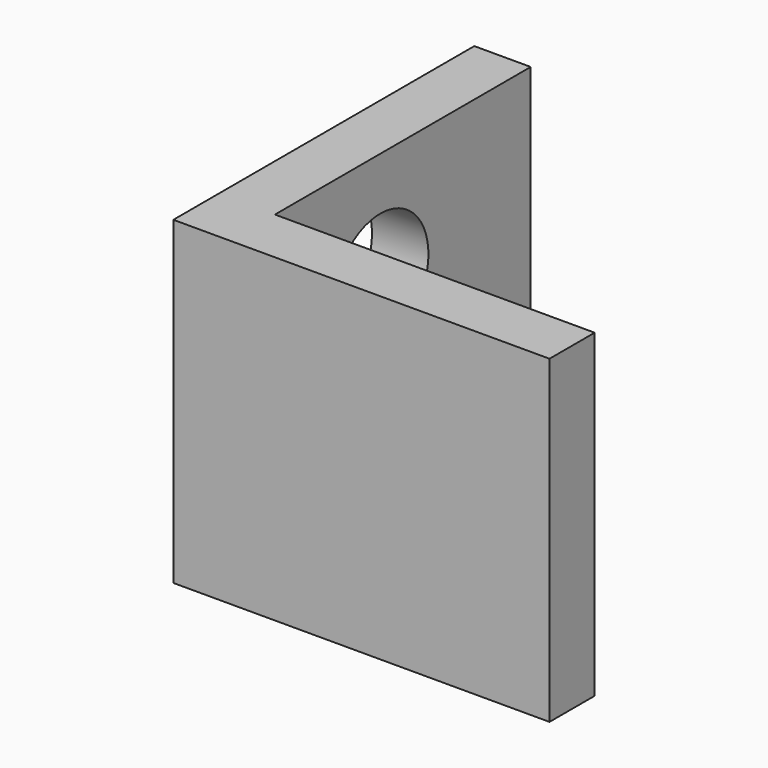
from build123d import *

# Parameters (mm, degrees)
PAD_DEPTH    = 17
SKETCH001_R  = 3.2
POCKET_DEPTH = 5


with BuildPart() as part:
    # Sketch → Pad (new body)
    with BuildSketch(Plane.XY):
        Polygon((0, 0), (0, 20), (3, 20), (3, 3), (20, 3), (20, 0), align=None)
    extrude(amount=PAD_DEPTH)

    # Sketch001 (on Face1 of Pad) → Pocket (cut)
    with BuildSketch(Plane(origin=(0, 0, 0), x_dir=(0, -1, 0), z_dir=(-1, 0, 0))):
        with Locations((-10, 11)):
            Circle(SKETCH001_R)
    extrude(amount=-POCKET_DEPTH, mode=Mode.SUBTRACT)


solid = part.part
